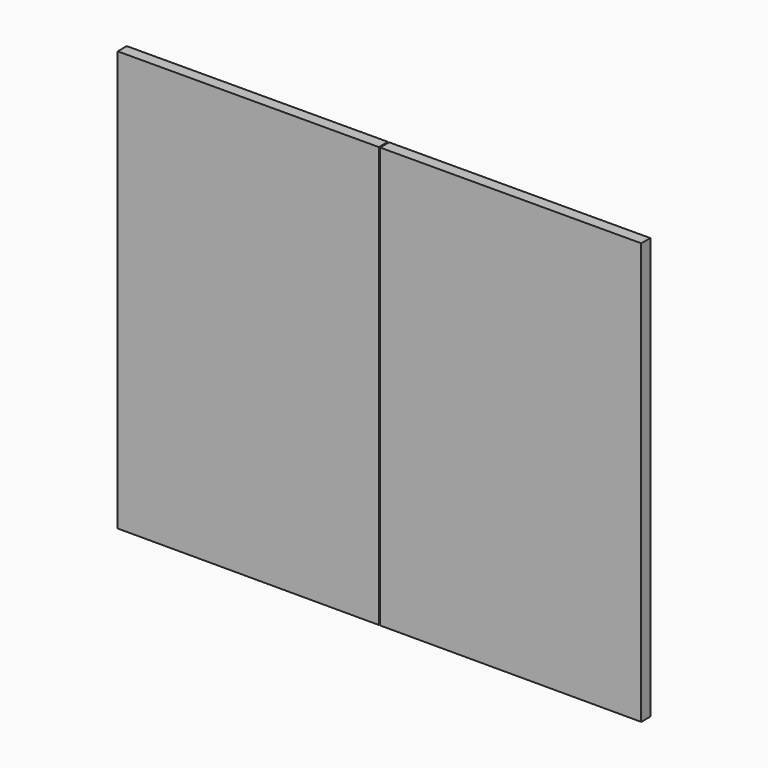
from build123d import *

# Parameters (mm, degrees)
F1_DEPTH = 18
F2_R     = 17.5
F3_DEPTH = 14


with BuildPart() as f1:
    # F0 (on Front) → F1 (new body)
    with BuildSketch(Plane.XZ):
        Polygon((-1, 666.99759), (-415, 666), (-415, 0), (-1, 0), align=None)
        Polygon((415, 668), (1, 667.00241), (1, 0), (415, 0), align=None)
    extrude(amount=F1_DEPTH)

    # F2 (on face) → F3 (cut)
    with BuildSketch(Plane(origin=(0, 0, 0), x_dir=(-1, 0, 0), z_dir=(0, 1, 0))):
        with Locations((-392.5, 517.945348)):
            Circle(F2_R)
        with Locations((-392.5, 150)):
            Circle(F2_R)
        with Locations((392.5, 517.945348)):
            Circle(F2_R)
        with Locations((392.5, 150)):
            Circle(F2_R)
    extrude(amount=-F3_DEPTH, mode=Mode.SUBTRACT)


solid = f1.part
